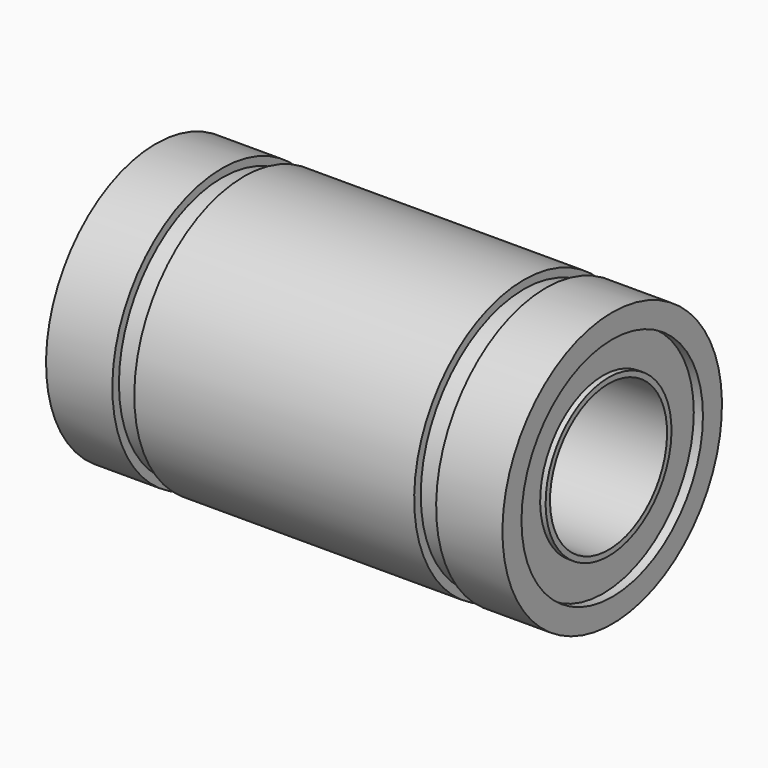
from build123d import *


with BuildPart() as f1:
    # F0 (on Front) → F1 (revolve)
    with BuildSketch(Plane.XZ):
        Polygon((12.475, 6.2), (12.475, 7.5), (8.85, 7.5), (8.85, 7.05), (7.65, 7.05), (7.65, 7.5), (-7.65, 7.5), (-7.65, 7.05), (-8.85, 7.05), (-8.85, 7.5), (-12.475, 7.5), (-12.475, 6.2), (-11.975, 6.2), (-11.975, 4.3), (-12.275, 4.3), (-12.275, 4), (12.275, 4), (12.275, 4.3), (11.975, 4.3), (11.975, 6.2), align=None)
    revolve(axis=Axis((3.302263, 0, 0), (1, 0, 0)))


solid = f1.part
